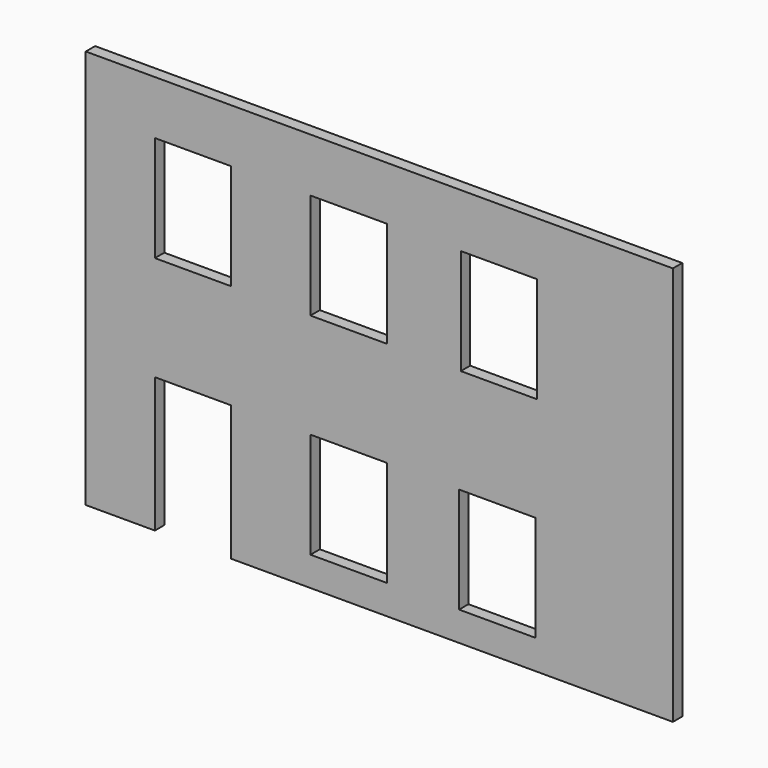
from build123d import *

# Parameters (mm, degrees)
F0_W     = 13
F0_H     = 18
F1_DEPTH = 2


with BuildPart() as f1:
    # F0 (on Front) → F1 (new body)
    with BuildSketch(Plane.XZ):
        Polygon((61.726972, 5.976971), (-38.273028, 5.976971), (-38.273028, -62.023029), (-26.49671, -62.023029), (-26.49671, -39.023029), (-13.49671, -39.023029), (-13.49671, -62.023029), (61.726972, -62.023029), align=None)
        with Locations((6.5, -48.023029)):
            Rectangle(F0_W, F0_H, mode=Mode.SUBTRACT)
        with Locations((31.812498, -48.023029)):
            Rectangle(F0_W, F0_H, mode=Mode.SUBTRACT)
        with Locations((-19.99671, -12.167763)):
            Rectangle(F0_W, F0_H, mode=Mode.SUBTRACT)
        with Locations((6.5, -12.167763)):
            Rectangle(F0_W, F0_H, mode=Mode.SUBTRACT)
        with Locations((32.108551, -12.167763)):
            Rectangle(F0_W, F0_H, mode=Mode.SUBTRACT)
    extrude(amount=F1_DEPTH)


solid = f1.part
